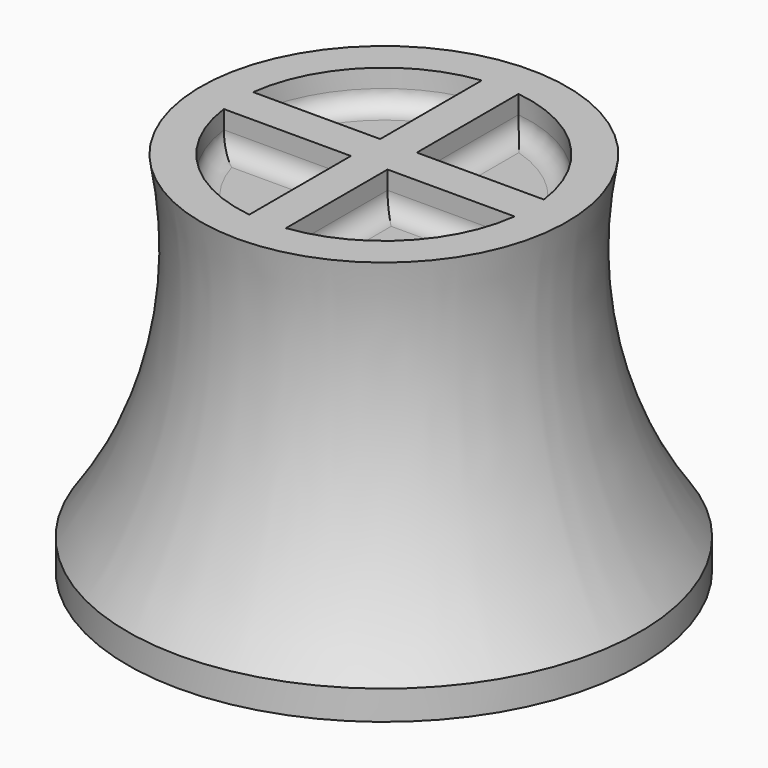
from build123d import *

# Parameters (mm, degrees)
F2_R     = 1.1
F3_DEPTH = 8
F5_DEPTH = 1
F6_R     = 0.5


with BuildPart() as f1:
    # F0 (on Right) → F1 (revolve)
    with BuildSketch(Plane.YZ):
        with BuildLine():
            Line((-7, 0), (0, 0))
            Line((0, 0), (0, 10))
            Line((0, 10), (-5, 10))
            ThreePointArc((-5, 10), (-5.060069, 5.195667), (-7, 0.8))
            Line((-7, 0.8), (-7, 0))
        make_face()
    revolve(axis=Axis((0, 0, 7.262046), (0, 0, -1)))

    # F2 (on face) → F3 (cut)
    with BuildSketch(Plane(origin=(0, 0, 0), x_dir=(1, 0, 0), z_dir=(0, 0, -1))):
        Circle(F2_R)
    extrude(amount=-F3_DEPTH, mode=Mode.SUBTRACT)

    # F4 (on face) → F5 (cut)
    with BuildSketch(Plane.XY.offset(10)):
        with BuildLine():
            Line((-0.5, 0.5), (-0.5, 3.968627))
            ThreePointArc((-0.5, 3.968627), (-2.828427, 2.828427), (-3.968627, 0.5))
            Line((-3.968627, 0.5), (-0.5, 0.5))
        make_face()
        with BuildLine():
            ThreePointArc((3.968627, 0.5), (2.828427, 2.828427), (0.5, 3.968627))
            Line((0.5, 3.968627), (0.5, 0.5))
            Line((0.5, 0.5), (3.968627, 0.5))
        make_face()
        with BuildLine():
            Line((-0.5, -0.5), (-3.968627, -0.5))
            ThreePointArc((-3.968627, -0.5), (-2.828427, -2.828427), (-0.5, -3.968627))
            Line((-0.5, -3.968627), (-0.5, -0.5))
        make_face()
        with BuildLine():
            Line((0.5, -0.5), (0.5, -3.968627))
            ThreePointArc((0.5, -3.968627), (2.828427, -2.828427), (3.968627, -0.5))
            Line((3.968627, -0.5), (0.5, -0.5))
        make_face()
    extrude(amount=-F5_DEPTH, mode=Mode.SUBTRACT)

    # F6
    f6_edges = [f1.edges().sort_by_distance(p)[0] for p in [
        (-2.234313, 0.5, 9),
        (-0.5, 2.234313, 9),
        (-2.828427, 2.828427, 9),
        (2.828427, 2.828427, 9),
        (0.5, 2.234313, 9),
        (2.234313, 0.5, 9),
        (2.234313, -0.5, 9),
        (0.5, -2.234313, 9),
        (2.828427, -2.828427, 9),
        (-0.5, -2.234313, 9),
        (-2.234313, -0.5, 9),
        (-2.828427, -2.828427, 9),
    ]]
    fillet(f6_edges, radius=F6_R)


solid = f1.part
